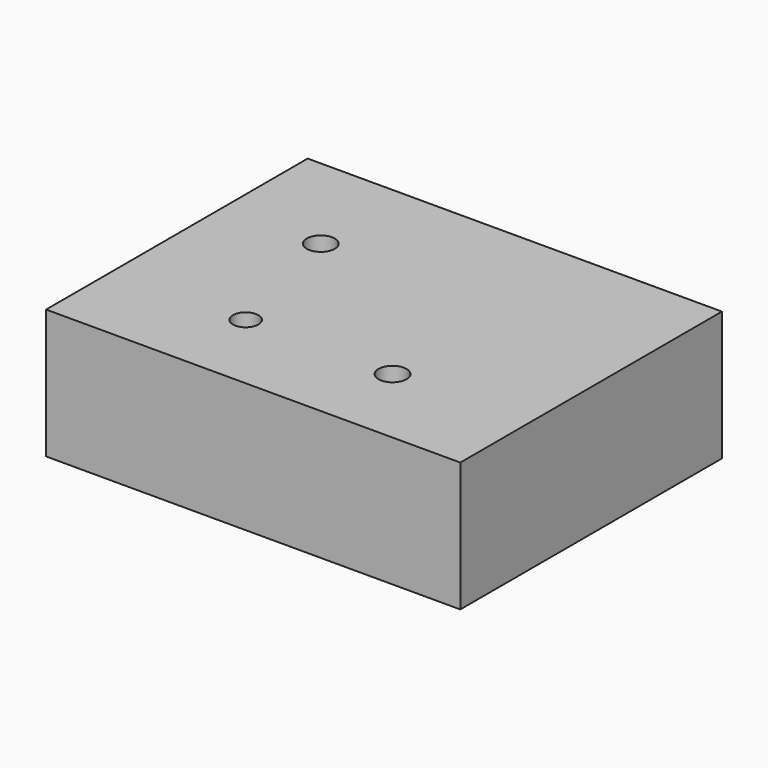
from build123d import *

# Parameters (mm, degrees)
F0_W           = 81.3528001308
F0_H           = 64.2257872969
F1_DEPTH       = 25.4
F2_D           = 5
F2_CSINK_D     = 11.2
F2_CSINK_ANGLE = 90
F3_D           = 5.5
F3_CBORE_D     = 9.75
F3_CBORE_DEPTH = 5
F4_D           = 5.5
F4_CBORE_D     = 9.75
F4_CBORE_DEPTH = 5


with BuildPart() as f1:
    # F0 (on Top) → F1 (new body)
    with BuildSketch(Plane.XY):
        with Locations((-20.2816128731, -21.4906251058)):
            Rectangle(F0_W, F0_H)
    extrude(amount=F1_DEPTH)

    # F2 (through all)
    with Locations(Plane(origin=(0, 0, 0), x_dir=(1, 0, 0), z_dir=(0, 0, -1))):
        with Locations((-34.9211469293, 37.1498316526)):
            CounterSinkHole(F2_D / 2, F2_CSINK_D / 2, counter_sink_angle=F2_CSINK_ANGLE)

    # F3 (through all)
    with Locations(Plane(origin=(0, 0, 0), x_dir=(1, 0, 0), z_dir=(0, 0, -1))):
        with Locations((-41.7322255671, 10.194754228)):
            CounterBoreHole(F3_D / 2, F3_CBORE_D / 2, F3_CBORE_DEPTH)

    # F4 (through all)
    with Locations(Plane(origin=(0, 0, 0), x_dir=(1, 0, 0), z_dir=(0, 0, -1))):
        with Locations((-6.0793207958, 37.1498316526)):
            CounterBoreHole(F4_D / 2, F4_CBORE_D / 2, F4_CBORE_DEPTH)


solid = f1.part
